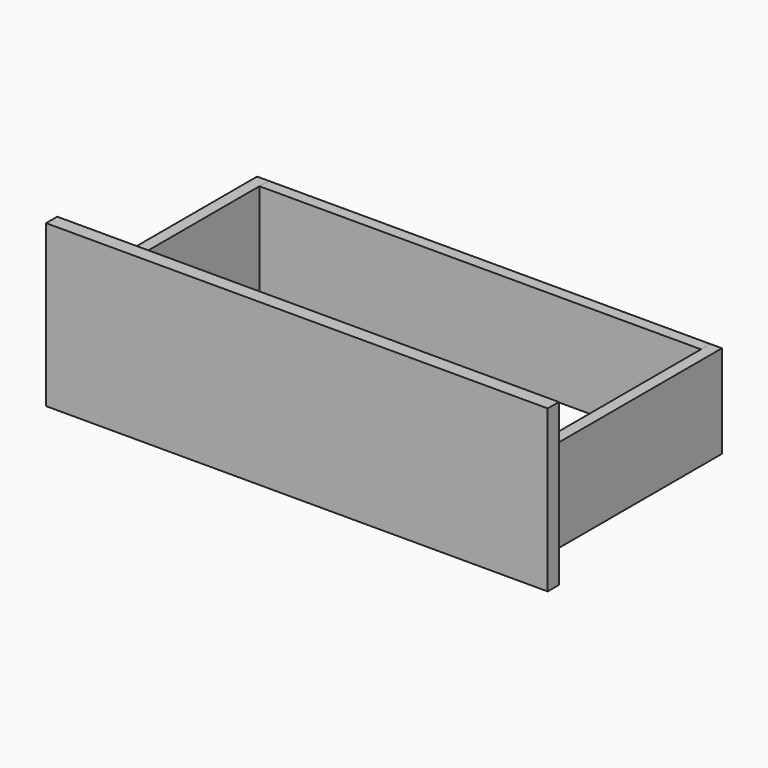
from build123d import *

# Parameters (mm, degrees)
F0_W     = 570
F0_H     = 120
F1_DEPTH = 15
F2_W     = 15
F2_H     = 120
F3_DEPTH = 300
F4_W     = 15
F4_H     = 120
F5_DEPTH = 570
F6_W     = 647.5
F6_H     = 208
F7_DEPTH = 18


with BuildPart() as f1:
    # F0 (on Front) → F1 (new body)
    with BuildSketch(Plane.XZ):
        with Locations((0, 60)):
            Rectangle(F0_W, F0_H)
    extrude(amount=F1_DEPTH)


with BuildPart() as f3:
    # F2 (on face) → F3 (new body)
    with BuildSketch(Plane.XZ.offset(15)):
        with Locations((292.5, 60)):
            Rectangle(F2_W, F2_H)
        with Locations((-292.5, 60)):
            Rectangle(F2_W, F2_H)
    extrude(amount=-F3_DEPTH)


with BuildPart() as f5:
    # F4 (on face) → F5 (new body, through all)
    with BuildSketch(Plane(origin=(285, 0, 0), x_dir=(0, -1, 0), z_dir=(-1, 0, 0))):
        with Locations((-277.5, 60)):
            Rectangle(F4_W, F4_H)
    extrude(amount=F5_DEPTH)


with BuildPart() as f7:
    # F6 (on face) → F7 (new body)
    with BuildSketch(Plane.XZ.offset(15)):
        with Locations((5.75, 86.5)):
            Rectangle(F6_W, F6_H)
    extrude(amount=F7_DEPTH)


solid = Compound([f1.part, f3.part, f5.part, f7.part])
